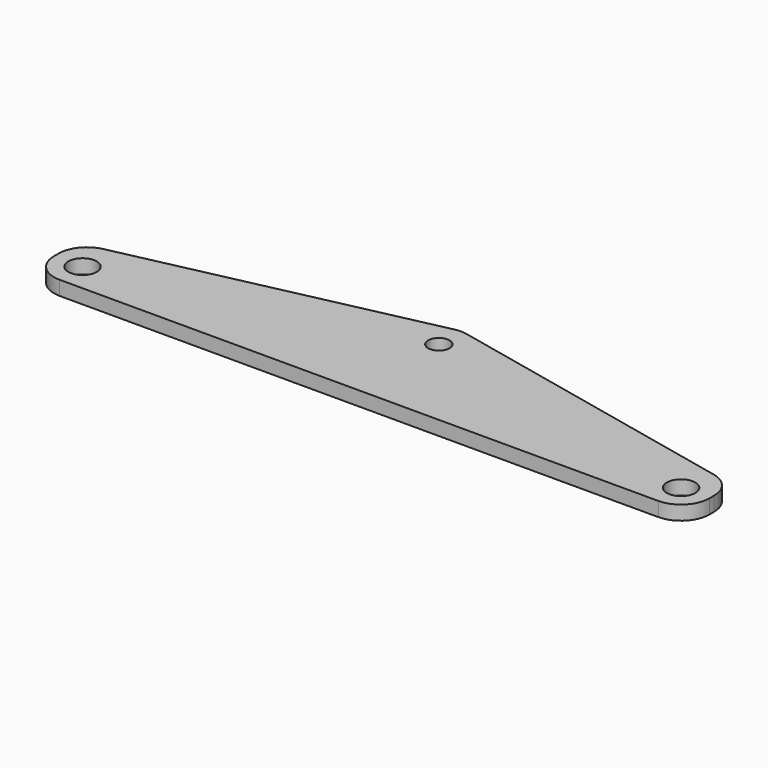
from build123d import *

# Parameters (mm, degrees)
SKETCH_R   = 2
SKETCH_R_2 = 1.5
PAD_DEPTH  = 2
FILLET_R   = 4


with BuildPart() as part:
    # Sketch → Pad (new body)
    with BuildSketch(Plane.XY):
        Polygon((-46, -4), (46, -4), (46, 4), (0, 14), (-46, 4), align=None)
        with Locations((-42, 0)):
            Circle(SKETCH_R, mode=Mode.SUBTRACT)
        with Locations((42, 0)):
            Circle(SKETCH_R, mode=Mode.SUBTRACT)
        with Locations((0, 10)):
            Circle(SKETCH_R_2, mode=Mode.SUBTRACT)
    extrude(amount=PAD_DEPTH)

    # Fillet
    fillet_edges = [part.edges().sort_by_distance(p)[0] for p in [
        (46, -4, 1),
        (46, 4, 1),
        (-46, -4, 1),
        (-46, 4, 1),
        (0, 14, 1),
    ]]
    fillet(fillet_edges, radius=FILLET_R)


solid = part.part
